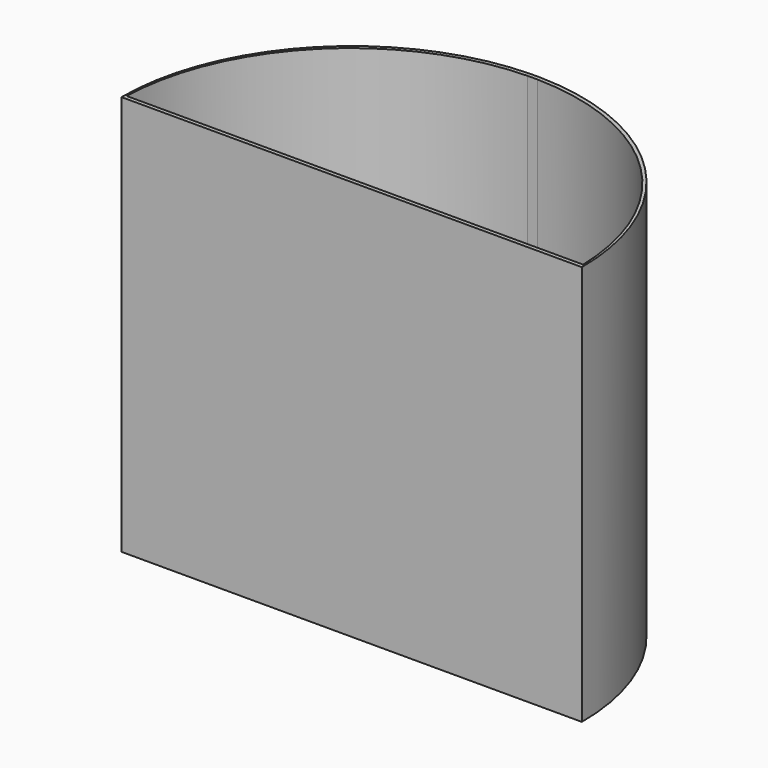
from build123d import *

# Parameters (mm, degrees)
F1_DEPTH = 100
F2_R     = 0.5
F3_DEPTH = 25


with BuildPart() as f1:
    # F0 (on Top) → F1 (new body)
    with BuildSketch(Plane.XY):
        with BuildLine():
            ThreePointArc((-1.25, 57.5), (-41.102958, 40.223002), (-57.5, 0))
            Line((-57.5, 0), (57.5, 0))
            ThreePointArc((57.5, 0), (41.102958, 40.223002), (1.25, 57.5))
            Line((1.25, 57.5), (-1.25, 57.5))
        make_face()
        with BuildLine():
            ThreePointArc((-57.000002, 1), (-40.233805, 39.908844), (-1.25, 56.5))
            Line((-1.25, 56.5), (1.25, 56.5))
            ThreePointArc((1.25, 56.5), (40.233803, 39.908843), (56.999998, 1))
            Line((56.999998, 1), (-57.000002, 1))
        make_face(mode=Mode.SUBTRACT)
    extrude(amount=F1_DEPTH)

    # F2 (on face) → F3 (cut)
    with BuildSketch(Plane(origin=(0, 57.5, 0), x_dir=(-1, 0, 0), z_dir=(0, 1, 0))):
        with Locations((0, 25)):
            Circle(F2_R)
    extrude(amount=-F3_DEPTH, mode=Mode.SUBTRACT)


solid = f1.part
